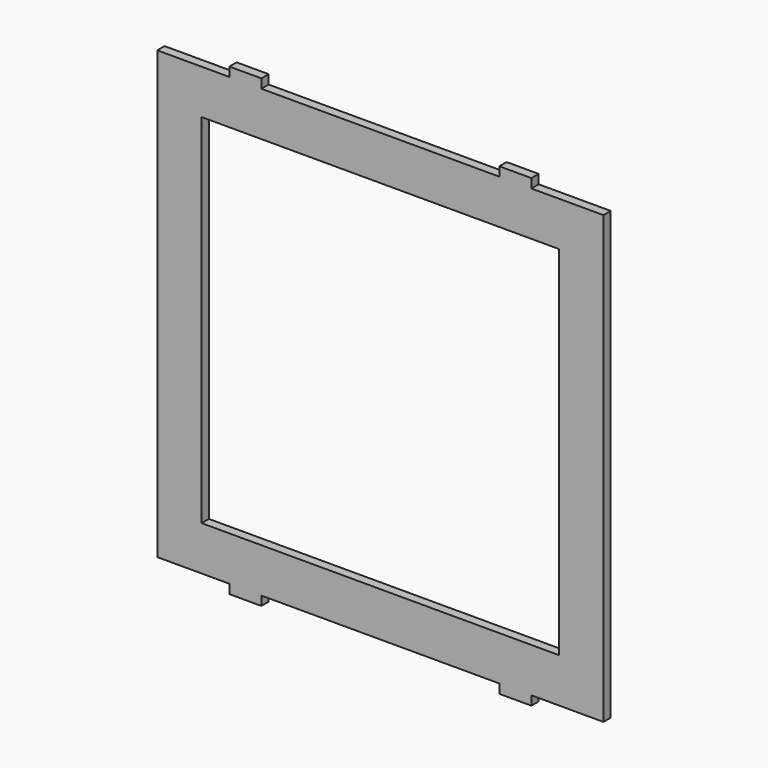
from build123d import *

# Parameters (mm, degrees)
F0_W     = 79.375
F0_H     = 79.375
F1_DEPTH = 2.032


with BuildPart() as f1:
    # F0 (on Front) → F1 (new body)
    with BuildSketch(Plane.XZ):
        Polygon((-33.528, 49.53), (-49.53, 49.53), (-49.53, 0), (-49.53, -49.53), (-33.528, -49.53), (-33.528, -51.562), (-26.416, -51.562), (-26.416, -49.53), (26.416, -49.53), (26.416, -51.562), (33.528, -51.562), (33.528, -49.53), (49.53, -49.53), (49.53, 0), (49.53, 49.53), (33.528, 49.53), (33.528, 51.562), (26.416, 51.562), (26.416, 49.53), (-26.416, 49.53), (-26.416, 51.562), (-33.528, 51.562), align=None)
        Rectangle(F0_W, F0_H, mode=Mode.SUBTRACT)
    extrude(amount=F1_DEPTH)


solid = f1.part
